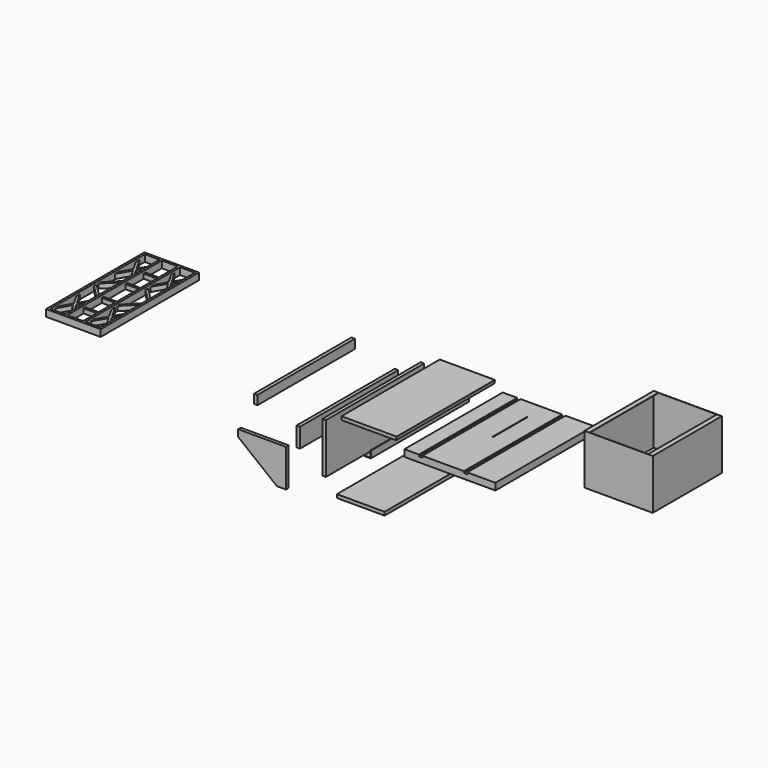
from build123d import *

# Parameters (mm, degrees)
F0_W      = 508
F0_H      = 38.1
F1_DEPTH  = 685.8
F3_DEPTH  = 685.8
F4_W      = 304.8
F4_H      = 19.05
F5_DEPTH  = 685.8
F6_W      = 19.05
F6_H      = 279.4
F7_DEPTH  = 685.8
F8_W      = 495.3
F8_H      = 673.1
F9_DEPTH  = 19.05
F10_W     = 685.8
F10_H     = 6.35
F11_DEPTH = 3.175
F12_R     = 3.175
F13_DEPTH = 154.2556030521
F14_W     = 266.7
F14_H     = 19.05
F15_DEPTH = 685.8
F16_W     = 19.05
F16_H     = 50.8
F17_DEPTH = 679.45
F18_W     = 19.05
F18_H     = 107.95
F19_DEPTH = 685.8
F21_DEPTH = 19.05
F22_W     = 19.05
F22_H     = 9.525
F23_DEPTH = 685.801
F24_W     = 3.175
F24_H     = 241.3
F25_DEPTH = 400.6821936617
F26_W     = 381
F26_H     = 482.6
F27_DEPTH = 279.4
F28_W     = 327.025
F28_H     = 428.625
F29_DEPTH = 680.0821936617
F30_W     = 428.625
F30_H     = 276.225
F31_DEPTH = 25.4
F32_W     = 428.625
F32_H     = 276.225
F33_DEPTH = 25.4
F35_DEPTH = 25.4
F37_DEPTH = 25.4
F38_W     = 304.8
F38_H     = 685.8
F39_DEPTH = 38.1
F40_W     = 82.55
F40_H     = 660.4
F40_W_2   = 88.9
F41_DEPTH = 438.7821936617
F42_W     = 88.9
F42_H     = 660.4
F42_W_2   = 82.55
F43_DEPTH = 6.35
F44_W     = 88.9
F44_H     = 12.7
F45_DEPTH = 25.4


with BuildPart() as f1:
    # F0 (on Front) → F1 (new body)
    with BuildSketch(Plane.XZ):
        with Locations((254, -19.05)):
            Rectangle(F0_W, F0_H)
    extrude(amount=-F1_DEPTH)

    # F8 (on face) → F9 (cut)
    with BuildSketch(Plane(origin=(0, 0, -38.1), x_dir=(1, 0, 0), z_dir=(0, 0, -1))):
        with Locations((254, -342.9)):
            Rectangle(F8_W, F8_H)
    extrude(amount=-F9_DEPTH, mode=Mode.SUBTRACT)

    # F22 (on face) → F23 (cut, through all)
    with BuildSketch(Plane.XZ):
        with Locations((90.4875, -4.7625)):
            Rectangle(F22_W, F22_H)
        with Locations((341.3125, -4.7625)):
            Rectangle(F22_W, F22_H)
    extrude(amount=-F23_DEPTH, mode=Mode.SUBTRACT)

    # F24 (on face) → F25 (cut, through all)
    with BuildSketch(Plane.XY):
        with Locations((228.6, 450.85)):
            Rectangle(F24_W, F24_H)
    extrude(amount=-F25_DEPTH, mode=Mode.SUBTRACT)

    # F42 (on face) → F43 (cut)
    with BuildSketch(Plane.XY.offset(38.1)):
        with Locations((-1848.1522202492, 342.9)):
            Rectangle(F42_W, F42_H)
        with Locations((-1749.7272202492, 342.9)):
            Rectangle(F42_W_2, F42_H)
    extrude(amount=-F43_DEPTH, mode=Mode.SUBTRACT)


with BuildPart() as f3:
    # F2 (on Front) → F3 (new body, through all)
    with BuildSketch(Plane.XZ):
        Polygon((-187.6088068062, -106.5923403651), (-187.6088068062, -68.4923403651), (-190.7838068062, -68.4923403651), (-190.7838068062, -103.4173403651), (-225.7088068062, -103.4173403651), (-225.7088068062, -106.5923403651), align=None)
    extrude(amount=-F3_DEPTH)

    # F12 (on face) → F13 (cut, through all)
    with BuildSketch(Plane(origin=(0, 0, -106.5923403651), x_dir=(1, 0, 0), z_dir=(0, 0, -1))):
        with Locations((-206.6588068062, -101.6)):
            Circle(F12_R)
        with Locations((-206.6588068062, -203.2)):
            Circle(F12_R)
        with Locations((-206.6588068062, -482.6)):
            Circle(F12_R)
        with Locations((-206.6588068062, -584.2)):
            Circle(F12_R)
    extrude(amount=-F13_DEPTH, mode=Mode.SUBTRACT)


with BuildPart() as f5:
    # F4 (on Front) → F5 (new body, through all)
    with BuildSketch(Plane.XZ):
        with Locations((-199.0881011365, 38.1372626871)):
            Rectangle(F4_W, F4_H)
    extrude(amount=-F5_DEPTH)

    # F10 (on face) → F11 (join)
    with BuildSketch(Plane.YZ.offset(-46.6881011365)):
        with Locations((342.9, 44.4872626871)):
            Rectangle(F10_W, F10_H)
    extrude(amount=F11_DEPTH)


with BuildPart() as f7:
    # F6 (on Front) → F7 (new body, through all)
    with BuildSketch(Plane.XZ):
        with Locations((-448.1418677211, -139.7)):
            Rectangle(F6_W, F6_H)
    extrude(amount=-F7_DEPTH)


with BuildPart() as f15:
    # F14 (on Front) → F15 (new body, through all)
    with BuildSketch(Plane.XZ):
        with Locations((-243.8991005421, -353.181636688)):
            Rectangle(F14_W, F14_H)
    extrude(amount=-F15_DEPTH)


with BuildPart() as f17:
    # F16 (on Front) → F17 (new body, through all)
    with BuildSketch(Plane.XZ):
        with Locations((-829.8331966219, -25.4)):
            Rectangle(F16_W, F16_H)
    extrude(amount=-F17_DEPTH)


with BuildPart() as f19:
    # F18 (on Front) → F19 (new body, through all)
    with BuildSketch(Plane.XZ):
        with Locations((-592.9225683212, -133.4683134563)):
            Rectangle(F18_W, F18_H)
    extrude(amount=-F19_DEPTH)


with BuildPart() as f21:
    # F20 (on Front) → F21 (new body)
    with BuildSketch(Plane.XZ):
        Polygon((-645.9781700617, -191.1311936617), (-912.6781700617, -191.1311936617), (-912.6781700617, -229.2311936617), (-696.7781700617, -400.6811936617), (-645.9781700617, -400.6811936617), align=None)
    extrude(amount=F21_DEPTH)


with BuildPart() as f27:
    # F26 (on Top) → F27 (new body)
    with BuildSketch(Plane.XY):
        with Locations((1030.5143296719, 448.0673644527)):
            Rectangle(F26_W, F26_H)
    extrude(amount=F27_DEPTH)

    # F28 (on face) → F29 (cut, through all)
    with BuildSketch(Plane.XY.offset(279.4)):
        with Locations((1030.5143296719, 448.0673644527)):
            Rectangle(F28_W, F28_H)
    extrude(amount=-F29_DEPTH, mode=Mode.SUBTRACT)

    # F30 (on face) → F31 (cut)
    with BuildSketch(Plane.YZ.offset(867.0018296719)):
        with Locations((448.0673644527, 139.7)):
            Rectangle(F30_W, F30_H)
    extrude(amount=-F31_DEPTH, mode=Mode.SUBTRACT)

    # F32 (on face) → F33 (cut)
    with BuildSketch(Plane(origin=(1194.0268296719, 0, 0), x_dir=(0, -1, 0), z_dir=(-1, 0, 0))):
        with Locations((-448.0673644527, 139.7)):
            Rectangle(F32_W, F32_H)
    extrude(amount=-F33_DEPTH, mode=Mode.SUBTRACT)

    # F34 (on face) → F35 (cut)
    with BuildSketch(Plane.XZ.offset(-662.3798644527)):
        Polygon((1194.0268296719, 279.4), (867.0018296719, 279.4), (867.0018296719, 277.8125), (841.6018296719, 277.8125), (841.6018296719, 1.5875), (1219.4268296719, 1.5875), (1219.4268296719, 277.8125), (1194.0268296719, 277.8125), align=None)
    extrude(amount=-F35_DEPTH, mode=Mode.SUBTRACT)

    # F36 (on face) → F37 (cut)
    with BuildSketch(Plane(origin=(0, 233.7548644527, 0), x_dir=(-1, 0, 0), z_dir=(0, 1, 0))):
        Polygon((-867.0018296719, 277.8125), (-867.0018296719, 279.4), (-1194.0268296719, 279.4), (-1194.0268296719, 277.8125), (-1219.4268296719, 277.8125), (-1219.4268296719, 1.5875), (-841.6018296719, 1.5875), (-841.6018296719, 277.8125), align=None)
    extrude(amount=-F37_DEPTH, mode=Mode.SUBTRACT)


with BuildPart() as f39:
    # F38 (on Top) → F39 (new body)
    with BuildSketch(Plane.XY):
        with Locations((-1848.1522202492, 342.9)):
            Rectangle(F38_W, F38_H)
    extrude(amount=F39_DEPTH)

    # F40 (on face) → F41 (cut, through all)
    with BuildSketch(Plane.XY.offset(38.1)):
        with Locations((-1946.5772202492, 342.9)):
            Rectangle(F40_W, F40_H)
        with Locations((-1848.1522202492, 342.9)):
            Rectangle(F40_W_2, F40_H)
        with Locations((-1749.7272202492, 342.9)):
            Rectangle(F40_W, F40_H)
    extrude(amount=-F41_DEPTH, mode=Mode.SUBTRACT)

    # F44 (on face) → F45 (join)
    with BuildSketch(Plane(origin=(0, 0, 0), x_dir=(1, 0, 0), z_dir=(0, 0, -1))):
        Polygon((-1749.7272202492, -122.2903970824), (-1791.0022202492, -50.8), (-1791.0022202492, -76.2), (-1757.0595686679, -134.9903970824), (-1791.0022202492, -193.7807941648), (-1791.0022202492, -219.1807941648), (-1749.7272202492, -147.6903970824), (-1708.4522202492, -219.1807941648), (-1708.4522202492, -193.7807941648), (-1742.3948718305, -134.9903970824), (-1708.4522202492, -76.2), (-1708.4522202492, -50.8), align=None)
        Polygon((-1749.7272202492, -538.1096029176), (-1791.0022202492, -466.6192058352), (-1791.0022202492, -492.0192058352), (-1757.0595686679, -550.8096029176), (-1791.0022202492, -609.6), (-1791.0022202492, -635), (-1749.7272202492, -563.5096029176), (-1708.4522202492, -635), (-1708.4522202492, -609.6), (-1742.3948718305, -550.8096029176), (-1708.4522202492, -492.0192058352), (-1708.4522202492, -466.6192058352), align=None)
        Polygon((-1708.4522202492, -367.2105122421), (-1708.4522202492, -349.25), (-1791.0022202492, -431.8), (-1791.0022202492, -449.7605122421), align=None)
        Polygon((-1791.0022202492, -254), (-1708.4522202492, -336.55), (-1708.4522202492, -318.5894877579), (-1791.0022202492, -236.0394877579), align=None)
        Polygon((-1946.5772202492, -122.2903970824), (-1987.8522202492, -50.8), (-1987.8522202492, -76.2), (-1953.9095686679, -134.9903970824), (-1987.8522202492, -193.7807941648), (-1987.8522202492, -219.1807941648), (-1946.5772202492, -147.6903970824), (-1905.3022202492, -219.1807941648), (-1905.3022202492, -193.7807941648), (-1939.2448718305, -134.9903970824), (-1905.3022202492, -76.2), (-1905.3022202492, -50.8), align=None)
        Polygon((-1946.5772202492, -538.1096029176), (-1987.8522202492, -466.6192058352), (-1987.8522202492, -492.0192058352), (-1953.9095686679, -550.8096029176), (-1987.8522202492, -609.6), (-1987.8522202492, -635), (-1946.5772202492, -563.5096029176), (-1905.3022202492, -635), (-1905.3022202492, -609.6), (-1939.2448718305, -550.8096029176), (-1905.3022202492, -492.0192058352), (-1905.3022202492, -466.6192058352), align=None)
        Polygon((-1905.3022202492, -449.7605122421), (-1905.3022202492, -431.8), (-1987.8522202492, -349.25), (-1987.8522202492, -367.2105122421), align=None)
        Polygon((-1987.8522202492, -336.55), (-1905.3022202492, -254), (-1905.3022202492, -236.0394877579), (-1987.8522202492, -318.5894877579), align=None)
        with Locations((-1848.1522202492, -133.35)):
            Rectangle(F44_W, F44_H)
        with Locations((-1848.1522202492, -260.35)):
            Rectangle(F44_W, F44_H)
        with Locations((-1848.1522202492, -425.45)):
            Rectangle(F44_W, F44_H)
        with Locations((-1848.1522202492, -552.45)):
            Rectangle(F44_W, F44_H)
    extrude(amount=-F45_DEPTH)


solid = Compound([f1.part, f3.part, f5.part, f7.part, f15.part, f17.part, f19.part, f21.part, f27.part, f39.part])
